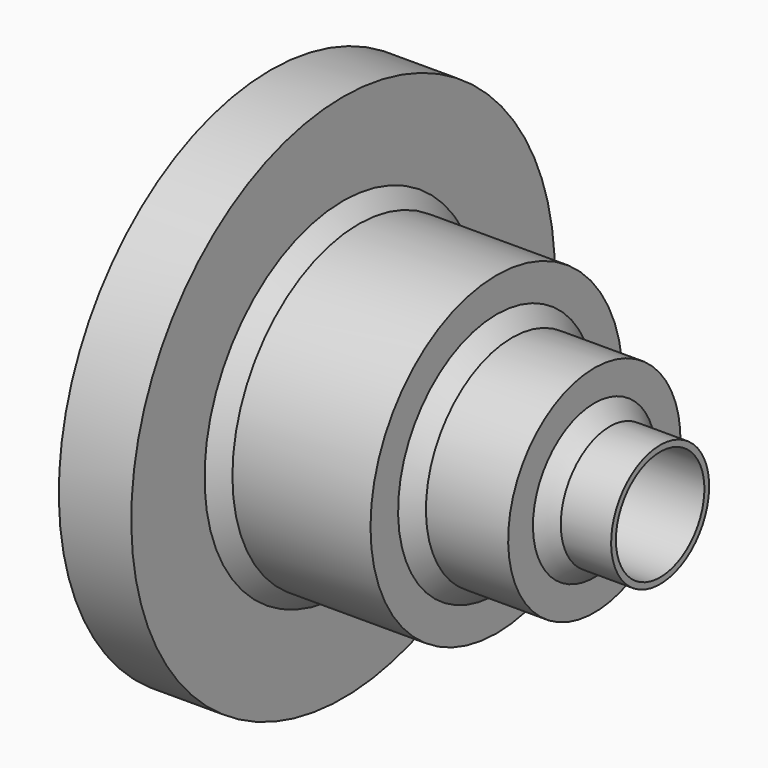
from build123d import *

# Parameters (mm, degrees)
F2_SIZE  = 5.08
F3_SIZE  = 5.08
F4_R     = 18.147419
F5_DEPTH = 127.908953


with BuildPart() as f1:
    # F0 (on Front) → F1 (revolve)
    with BuildSketch(Plane.XZ):
        Polygon((0, 51.78383), (0, 86.945966), (-23.790576, 86.945966), (-23.790576, 0), (0, 0), (104.118377, 0), (104.118377, 20.117693), (82.508355, 20.117693), (82.508355, 35.376113), (50.429285, 35.376113), (50.429285, 51.78383), align=None)
    revolve(axis=Axis((-54.851383, 0, 0), (1, 0, 0)))

    # F2
    f2_edges = [f1.edges().sort_by_distance(p)[0] for p in [
        (0, 0, -51.78383),
    ]]
    chamfer(f2_edges, length=F2_SIZE)

    # F3
    f3_edges = [f1.edges().sort_by_distance(p)[0] for p in [
        (50.429285, 0, -35.376113),
        (82.508355, 0, -20.117693),
    ]]
    chamfer(f3_edges, length=F3_SIZE)

    # F4 (on face) → F5 (cut, through all)
    with BuildSketch(Plane(origin=(-23.790576, 0, 0), x_dir=(0, -1, 0), z_dir=(-1, 0, 0))):
        Circle(F4_R)
    extrude(amount=-F5_DEPTH, mode=Mode.SUBTRACT)


solid = f1.part
